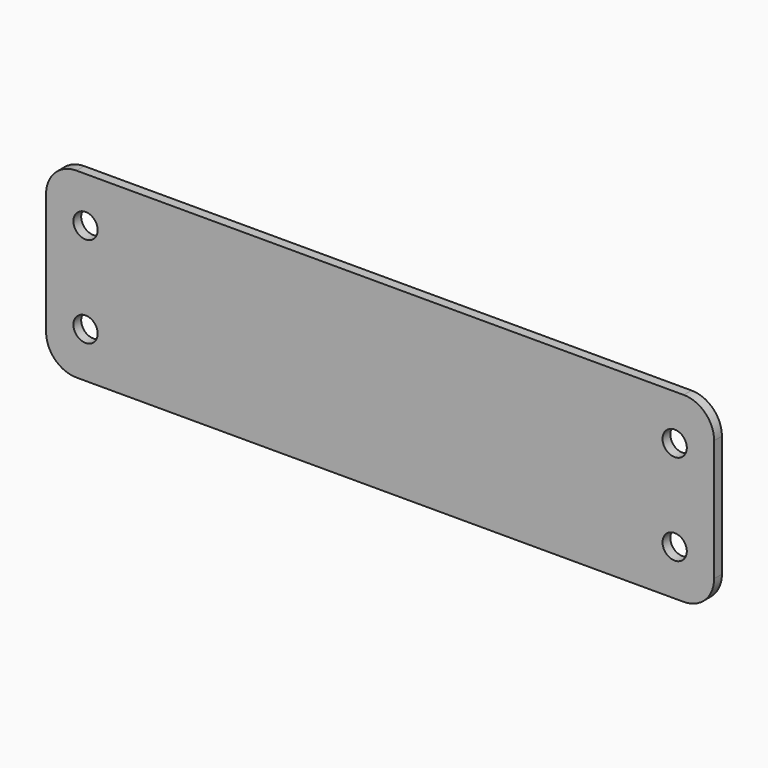
from build123d import *

# Parameters (mm, degrees)
F2_R     = 4
F3_DEPTH = 3.2


with BuildPart() as f3:
    # F2 (on offset) → F3 (new body)
    with BuildSketch(Plane.XZ.offset(21)):
        with BuildLine():
            Line((-184.462714, 60.321524), (-279.652542, 60.321524))
            ThreePointArc((-279.652542, 60.321524), (-286.72361, 57.392592), (-289.652542, 50.321524))
            Line((-289.652542, 50.321524), (-289.652542, 10.321524))
            ThreePointArc((-289.652542, 10.321524), (-286.72361, 3.250456), (-279.652542, 0.321524))
            Line((-279.652542, 0.321524), (-79.652542, 0.321524))
            ThreePointArc((-79.652542, 0.321524), (-72.581475, 3.250456), (-69.652542, 10.321524))
            Line((-69.652542, 10.321524), (-69.652542, 50.321524))
            ThreePointArc((-69.652542, 50.321524), (-72.581475, 57.392592), (-79.652542, 60.321524))
            Line((-79.652542, 60.321524), (-104.462714, 60.321524))
            Line((-104.462714, 60.321524), (-184.462714, 60.321524))
        make_face()
        with Locations((-276.652542, 15.321524)):
            Circle(F2_R, mode=Mode.SUBTRACT)
        with Locations((-82.652542, 15.321524)):
            Circle(F2_R, mode=Mode.SUBTRACT)
        with Locations((-276.652542, 45.321524)):
            Circle(F2_R, mode=Mode.SUBTRACT)
        with Locations((-82.652542, 45.321524)):
            Circle(F2_R, mode=Mode.SUBTRACT)
    extrude(amount=F3_DEPTH)


solid = f3.part
